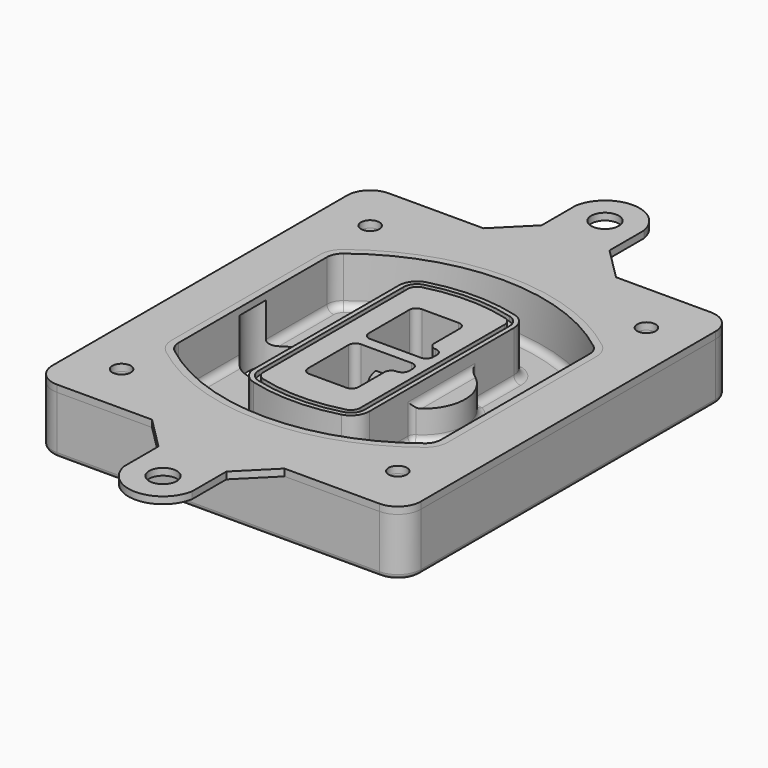
from build123d import *

# Parameters (mm, degrees)
F0_R      = 4
F1_DEPTH  = 25
F2_DEPTH  = 3
F3_DEPTH  = 18
F5_DEPTH  = 21
F6_DEPTH  = 2
F8_DEPTH  = 20
F9_DEPTH  = 16
F10_DEPTH = 25
F7_R      = 6
F7_R_2    = 4
F11_DEPTH = 6
F13_DEPTH = 9
F14_R     = 3
F15_R     = 2
F16_R     = 6
F16_R_2   = 4
F17_DEPTH = 3


with BuildPart() as f1:
    # F0 (on Top) → F1 (new body)
    with BuildSketch(Plane.XY):
        with BuildLine():
            ThreePointArc((-80, -80), (-77.0710678119, -87.0710678119), (-70, -90))
            Line((-70, -90), (70, -90))
            ThreePointArc((70, -90), (77.0710678119, -87.0710678119), (80, -80))
            Line((80, -80), (80, 80))
            ThreePointArc((80, 80), (77.0710678119, 87.0710678119), (70, 90))
            Line((70, 90), (-70, 90))
            ThreePointArc((-70, 90), (-77.0710678119, 87.0710678119), (-80, 80))
            Line((-80, 80), (-80, -80))
        make_face()
        with Locations((-60, -67.5)):
            Circle(F0_R, mode=Mode.SUBTRACT)
        with Locations((60, -67.5)):
            Circle(F0_R, mode=Mode.SUBTRACT)
        with Locations((-60, 67.5)):
            Circle(F0_R, mode=Mode.SUBTRACT)
        with BuildLine():
            ThreePointArc((-64, 40.2934422872), (-62.5820384798, 46.4328484224), (-58.6153846154, 51.3286200352))
            ThreePointArc((-58.6153846154, 51.3286200352), (0, 71.5), (58.6153846154, 51.3286200352))
            ThreePointArc((58.6153846154, 51.3286200352), (62.5820384798, 46.4328484224), (64, 40.2934422872))
            Line((64, 40.2934422872), (64, -40.2934422872))
            ThreePointArc((64, -40.2934422872), (62.5820384798, -46.4328484224), (58.6153846154, -51.3286200352))
            ThreePointArc((58.6153846154, -51.3286200352), (0, -71.5), (-58.6153846154, -51.3286200352))
            ThreePointArc((-58.6153846154, -51.3286200352), (-62.5820384798, -46.4328484224), (-64, -40.2934422872))
            Line((-64, -40.2934422872), (-64, 40.2934422872))
        make_face(mode=Mode.SUBTRACT)
        with Locations((60, 67.5)):
            Circle(F0_R, mode=Mode.SUBTRACT)
        with BuildLine():
            ThreePointArc((58.6153846154, 51.3286200352), (0, 71.5), (-58.6153846154, 51.3286200352))
            ThreePointArc((-58.6153846154, 51.3286200352), (-62.5820384798, 46.4328484224), (-64, 40.2934422872))
            Line((-64, 40.2934422872), (-64, -40.2934422872))
            ThreePointArc((-64, -40.2934422872), (-62.5820384798, -46.4328484224), (-58.6153846154, -51.3286200352))
            ThreePointArc((-58.6153846154, -51.3286200352), (0, -71.5), (58.6153846154, -51.3286200352))
            ThreePointArc((58.6153846154, -51.3286200352), (62.5820384798, -46.4328484224), (64, -40.2934422872))
            Line((64, -40.2934422872), (64, 40.2934422872))
            ThreePointArc((64, 40.2934422872), (62.5820384798, 46.4328484224), (58.6153846154, 51.3286200352))
        make_face()
        with BuildLine():
            Line((-60, -40.2934422872), (-60, 40.2934422872))
            ThreePointArc((-60, 40.2934422872), (-58.9871703427, 44.6787323838), (-56.1538461538, 48.1757121072))
            ThreePointArc((-56.1538461538, 48.1757121072), (0, 67.5), (56.1538461538, 48.1757121072))
            ThreePointArc((56.1538461538, 48.1757121072), (58.9871703427, 44.6787323838), (60, 40.2934422872))
            Line((60, 40.2934422872), (60, -40.2934422872))
            ThreePointArc((60, -40.2934422872), (58.9871703427, -44.6787323838), (56.1538461538, -48.1757121072))
            ThreePointArc((56.1538461538, -48.1757121072), (0, -67.5), (-56.1538461538, -48.1757121072))
            ThreePointArc((-56.1538461538, -48.1757121072), (-58.9871703427, -44.6787323838), (-60, -40.2934422872))
        make_face(mode=Mode.SUBTRACT)
        with BuildLine():
            ThreePointArc((-56.1538461538, 48.1757121072), (-58.9871703427, 44.6787323838), (-60, 40.2934422872))
            Line((-60, 40.2934422872), (-60, -40.2934422872))
            ThreePointArc((-60, -40.2934422872), (-58.9871703427, -44.6787323838), (-56.1538461538, -48.1757121072))
            ThreePointArc((-56.1538461538, -48.1757121072), (0, -67.5), (56.1538461538, -48.1757121072))
            ThreePointArc((56.1538461538, -48.1757121072), (58.9871703427, -44.6787323838), (60, -40.2934422872))
            Line((60, -40.2934422872), (60, 40.2934422872))
            ThreePointArc((60, 40.2934422872), (58.9871703427, 44.6787323838), (56.1538461538, 48.1757121072))
            ThreePointArc((56.1538461538, 48.1757121072), (0, 67.5), (-56.1538461538, 48.1757121072))
        make_face()
        with BuildLine():
            ThreePointArc((54.3076923077, 45.8110311612), (56.2910192399, 43.3631453548), (57, 40.2934422872))
            Line((57, 40.2934422872), (57, -40.2934422872))
            ThreePointArc((57, -40.2934422872), (56.2910192399, -43.3631453548), (54.3076923077, -45.8110311612))
            ThreePointArc((54.3076923077, -45.8110311612), (0, -64.5), (-54.3076923077, -45.8110311612))
            ThreePointArc((-54.3076923077, -45.8110311612), (-56.2910192399, -43.3631453548), (-57, -40.2934422872))
            Line((-57, -40.2934422872), (-57, 40.2934422872))
            ThreePointArc((-57, 40.2934422872), (-56.2910192399, 43.3631453548), (-54.3076923077, 45.8110311612))
            ThreePointArc((-54.3076923077, 45.8110311612), (0, 64.5), (54.3076923077, 45.8110311612))
        make_face(mode=Mode.SUBTRACT)
        with BuildLine():
            Line((57, -40.2934422872), (57, 40.2934422872))
            ThreePointArc((57, 40.2934422872), (56.2910192399, 43.3631453548), (54.3076923077, 45.8110311612))
            ThreePointArc((54.3076923077, 45.8110311612), (0, 64.5), (-54.3076923077, 45.8110311612))
            ThreePointArc((-54.3076923077, 45.8110311612), (-56.2910192399, 43.3631453548), (-57, 40.2934422872))
            Line((-57, 40.2934422872), (-57, -40.2934422872))
            ThreePointArc((-57, -40.2934422872), (-56.2910192399, -43.3631453548), (-54.3076923077, -45.8110311612))
            ThreePointArc((-54.3076923077, -45.8110311612), (0, -64.5), (54.3076923077, -45.8110311612))
            ThreePointArc((54.3076923077, -45.8110311612), (56.2910192399, -43.3631453548), (57, -40.2934422872))
        make_face()
    extrude(amount=-F1_DEPTH)

    # F0 (on Top) → F2 (join)
    with BuildSketch(Plane.XY):
        with BuildLine():
            ThreePointArc((-56.1538461538, 48.1757121072), (-58.9871703427, 44.6787323838), (-60, 40.2934422872))
            Line((-60, 40.2934422872), (-60, -40.2934422872))
            ThreePointArc((-60, -40.2934422872), (-58.9871703427, -44.6787323838), (-56.1538461538, -48.1757121072))
            ThreePointArc((-56.1538461538, -48.1757121072), (0, -67.5), (56.1538461538, -48.1757121072))
            ThreePointArc((56.1538461538, -48.1757121072), (58.9871703427, -44.6787323838), (60, -40.2934422872))
            Line((60, -40.2934422872), (60, 40.2934422872))
            ThreePointArc((60, 40.2934422872), (58.9871703427, 44.6787323838), (56.1538461538, 48.1757121072))
            ThreePointArc((56.1538461538, 48.1757121072), (0, 67.5), (-56.1538461538, 48.1757121072))
        make_face()
        with BuildLine():
            ThreePointArc((54.3076923077, 45.8110311612), (56.2910192399, 43.3631453548), (57, 40.2934422872))
            Line((57, 40.2934422872), (57, -40.2934422872))
            ThreePointArc((57, -40.2934422872), (56.2910192399, -43.3631453548), (54.3076923077, -45.8110311612))
            ThreePointArc((54.3076923077, -45.8110311612), (0, -64.5), (-54.3076923077, -45.8110311612))
            ThreePointArc((-54.3076923077, -45.8110311612), (-56.2910192399, -43.3631453548), (-57, -40.2934422872))
            Line((-57, -40.2934422872), (-57, 40.2934422872))
            ThreePointArc((-57, 40.2934422872), (-56.2910192399, 43.3631453548), (-54.3076923077, 45.8110311612))
            ThreePointArc((-54.3076923077, 45.8110311612), (0, 64.5), (54.3076923077, 45.8110311612))
        make_face(mode=Mode.SUBTRACT)
    extrude(amount=F2_DEPTH)

    # F0 (on Top) → F3 (cut)
    with BuildSketch(Plane.XY):
        with BuildLine():
            Line((57, -40.2934422872), (57, 40.2934422872))
            ThreePointArc((57, 40.2934422872), (56.2910192399, 43.3631453548), (54.3076923077, 45.8110311612))
            ThreePointArc((54.3076923077, 45.8110311612), (0, 64.5), (-54.3076923077, 45.8110311612))
            ThreePointArc((-54.3076923077, 45.8110311612), (-56.2910192399, 43.3631453548), (-57, 40.2934422872))
            Line((-57, 40.2934422872), (-57, -40.2934422872))
            ThreePointArc((-57, -40.2934422872), (-56.2910192399, -43.3631453548), (-54.3076923077, -45.8110311612))
            ThreePointArc((-54.3076923077, -45.8110311612), (0, -64.5), (54.3076923077, -45.8110311612))
            ThreePointArc((54.3076923077, -45.8110311612), (56.2910192399, -43.3631453548), (57, -40.2934422872))
        make_face()
    extrude(amount=-F3_DEPTH, mode=Mode.SUBTRACT)

    # F4 (on face) → F5 (join, through all)
    with BuildSketch(Plane.XY.offset(3)):
        with BuildLine():
            ThreePointArc((-25, -39.2465276821), (-23.3511545998, -44.1109737193), (-19.0842911877, -46.9702398883))
            ThreePointArc((-19.0842911877, -46.9702398883), (0, -49.5), (19.0842911877, -46.9702398883))
            ThreePointArc((19.0842911877, -46.9702398883), (23.3511545998, -44.1109737193), (25, -39.2465276821))
            Line((25, -39.2465276821), (25, 39.2465276821))
            ThreePointArc((25, 39.2465276821), (23.3511545998, 44.1109737193), (19.0842911877, 46.9702398883))
            ThreePointArc((19.0842911877, 46.9702398883), (0, 49.5), (-19.0842911877, 46.9702398883))
            ThreePointArc((-19.0842911877, 46.9702398883), (-23.3511545998, 44.1109737193), (-25, 39.2465276821))
            Line((-25, 39.2465276821), (-25, -39.2465276821))
        make_face()
        with BuildLine():
            ThreePointArc((18.5632183908, 45.0393118368), (21.7633659499, 42.89486221), (23, 39.2465276821))
            Line((23, 39.2465276821), (23, -39.2465276821))
            ThreePointArc((23, -39.2465276821), (21.7633659499, -42.89486221), (18.5632183908, -45.0393118368))
            ThreePointArc((18.5632183908, -45.0393118368), (0, -47.5), (-18.5632183908, -45.0393118368))
            ThreePointArc((-18.5632183908, -45.0393118368), (-21.7633659499, -42.89486221), (-23, -39.2465276821))
            Line((-23, -39.2465276821), (-23, 39.2465276821))
            ThreePointArc((-23, 39.2465276821), (-21.7633659499, 42.89486221), (-18.5632183908, 45.0393118368))
            ThreePointArc((-18.5632183908, 45.0393118368), (0, 47.5), (18.5632183908, 45.0393118368))
        make_face(mode=Mode.SUBTRACT)
        with BuildLine():
            Line((23, -39.2465276821), (23, 39.2465276821))
            ThreePointArc((23, 39.2465276821), (21.7633659499, 42.89486221), (18.5632183908, 45.0393118368))
            ThreePointArc((18.5632183908, 45.0393118368), (0, 47.5), (-18.5632183908, 45.0393118368))
            ThreePointArc((-18.5632183908, 45.0393118368), (-21.7633659499, 42.89486221), (-23, 39.2465276821))
            Line((-23, 39.2465276821), (-23, -39.2465276821))
            ThreePointArc((-23, -39.2465276821), (-21.7633659499, -42.89486221), (-18.5632183908, -45.0393118368))
            ThreePointArc((-18.5632183908, -45.0393118368), (0, -47.5), (18.5632183908, -45.0393118368))
            ThreePointArc((18.5632183908, -45.0393118368), (21.7633659499, -42.89486221), (23, -39.2465276821))
        make_face()
        with BuildLine():
            ThreePointArc((18.0421455939, 43.1083837852), (20.1755772999, 41.6787507007), (21, 39.2465276821))
            Line((21, 39.2465276821), (21, -39.2465276821))
            ThreePointArc((21, -39.2465276821), (20.1755772999, -41.6787507007), (18.0421455939, -43.1083837852))
            ThreePointArc((18.0421455939, -43.1083837852), (0, -45.5), (-18.0421455939, -43.1083837852))
            ThreePointArc((-18.0421455939, -43.1083837852), (-20.1755772999, -41.6787507007), (-21, -39.2465276821))
            Line((-21, -39.2465276821), (-21, 39.2465276821))
            ThreePointArc((-21, 39.2465276821), (-20.1755772999, 41.6787507007), (-18.0421455939, 43.1083837852))
            ThreePointArc((-18.0421455939, 43.1083837852), (0, 45.5), (18.0421455939, 43.1083837852))
        make_face(mode=Mode.SUBTRACT)
        with BuildLine():
            Line((21, -39.2465276821), (21, 39.2465276821))
            ThreePointArc((21, 39.2465276821), (20.1755772999, 41.6787507007), (18.0421455939, 43.1083837852))
            ThreePointArc((18.0421455939, 43.1083837852), (0, 45.5), (-18.0421455939, 43.1083837852))
            ThreePointArc((-18.0421455939, 43.1083837852), (-20.1755772999, 41.6787507007), (-21, 39.2465276821))
            Line((-21, 39.2465276821), (-21, -39.2465276821))
            ThreePointArc((-21, -39.2465276821), (-20.1755772999, -41.6787507007), (-18.0421455939, -43.1083837852))
            ThreePointArc((-18.0421455939, -43.1083837852), (0, -45.5), (18.0421455939, -43.1083837852))
            ThreePointArc((18.0421455939, -43.1083837852), (20.1755772999, -41.6787507007), (21, -39.2465276821))
        make_face()
        with BuildLine():
            Line((-8, -2.5), (14, -2.5))
            ThreePointArc((14, -2.5), (16.1213203436, -3.3786796564), (17, -5.5))
            Line((17, -5.5), (17, -7.5))
            ThreePointArc((17, -7.5), (16.1213203436, -9.6213203436), (14, -10.5))
            ThreePointArc((14, -10.5), (11.8786796564, -11.3786796564), (11, -13.5))
            Line((11, -13.5), (11, -27.5))
            ThreePointArc((11, -27.5), (10.1213203436, -29.6213203436), (8, -30.5))
            Line((8, -30.5), (-8, -30.5))
            ThreePointArc((-8, -30.5), (-10.1213203436, -29.6213203436), (-11, -27.5))
            Line((-11, -27.5), (-11, -5.5))
            ThreePointArc((-11, -5.5), (-10.1213203436, -3.3786796564), (-8, -2.5))
        make_face(mode=Mode.SUBTRACT)
        with BuildLine():
            ThreePointArc((-8, 2.5), (-10.1213203436, 3.3786796564), (-11, 5.5))
            Line((-11, 5.5), (-11, 27.5))
            ThreePointArc((-11, 27.5), (-10.1213203436, 29.6213203436), (-8, 30.5))
            Line((-8, 30.5), (8, 30.5))
            ThreePointArc((8, 30.5), (10.1213203436, 29.6213203436), (11, 27.5))
            Line((11, 27.5), (11, 13.5))
            ThreePointArc((11, 13.5), (11.8786796564, 11.3786796564), (14, 10.5))
            ThreePointArc((14, 10.5), (16.1213203436, 9.6213203436), (17, 7.5))
            Line((17, 7.5), (17, 5.5))
            ThreePointArc((17, 5.5), (16.1213203436, 3.3786796564), (14, 2.5))
            Line((14, 2.5), (-8, 2.5))
        make_face(mode=Mode.SUBTRACT)
    extrude(amount=-F5_DEPTH)

    # F4 (on face) → F6 (cut)
    with BuildSketch(Plane.XY.offset(3)):
        with BuildLine():
            Line((23, -39.2465276821), (23, 39.2465276821))
            ThreePointArc((23, 39.2465276821), (21.7633659499, 42.89486221), (18.5632183908, 45.0393118368))
            ThreePointArc((18.5632183908, 45.0393118368), (0, 47.5), (-18.5632183908, 45.0393118368))
            ThreePointArc((-18.5632183908, 45.0393118368), (-21.7633659499, 42.89486221), (-23, 39.2465276821))
            Line((-23, 39.2465276821), (-23, -39.2465276821))
            ThreePointArc((-23, -39.2465276821), (-21.7633659499, -42.89486221), (-18.5632183908, -45.0393118368))
            ThreePointArc((-18.5632183908, -45.0393118368), (0, -47.5), (18.5632183908, -45.0393118368))
            ThreePointArc((18.5632183908, -45.0393118368), (21.7633659499, -42.89486221), (23, -39.2465276821))
        make_face()
        with BuildLine():
            ThreePointArc((18.0421455939, 43.1083837852), (20.1755772999, 41.6787507007), (21, 39.2465276821))
            Line((21, 39.2465276821), (21, -39.2465276821))
            ThreePointArc((21, -39.2465276821), (20.1755772999, -41.6787507007), (18.0421455939, -43.1083837852))
            ThreePointArc((18.0421455939, -43.1083837852), (0, -45.5), (-18.0421455939, -43.1083837852))
            ThreePointArc((-18.0421455939, -43.1083837852), (-20.1755772999, -41.6787507007), (-21, -39.2465276821))
            Line((-21, -39.2465276821), (-21, 39.2465276821))
            ThreePointArc((-21, 39.2465276821), (-20.1755772999, 41.6787507007), (-18.0421455939, 43.1083837852))
            ThreePointArc((-18.0421455939, 43.1083837852), (0, 45.5), (18.0421455939, 43.1083837852))
        make_face(mode=Mode.SUBTRACT)
    extrude(amount=-F6_DEPTH, mode=Mode.SUBTRACT)

    # F7 (on face) → F8 (join)
    with BuildSketch(Plane(origin=(0, 0, -25), x_dir=(1, 0, 0), z_dir=(0, 0, -1))):
        with BuildLine():
            ThreePointArc((3.28842436, 0), (16.7567035675, 13.4682792075), (30.224982775, 0))
            Line((30.224982775, 0), (35.224982775, 0))
            ThreePointArc((35.224982775, 0), (16.7567035675, 18.4682792075), (-1.71157564, 0))
            Line((-1.71157564, 0), (3.28842436, 0))
        make_face()
        with BuildLine():
            Line((3.28842436, 0), (30.224982775, 0))
            ThreePointArc((30.224982775, 0), (16.7567035675, 13.4682792075), (3.28842436, 0))
        make_face()
        with BuildLine():
            ThreePointArc((3.28842436, 0), (16.7567035675, -13.4682792075), (30.224982775, 0))
            Line((30.224982775, 0), (3.28842436, 0))
        make_face()
        with BuildLine():
            Line((35.224982775, 0), (30.224982775, 0))
            ThreePointArc((30.224982775, 0), (16.7567035675, -13.4682792075), (3.28842436, 0))
            Line((3.28842436, 0), (-1.71157564, 0))
            ThreePointArc((-1.71157564, 0), (16.7567035675, -18.4682792075), (35.224982775, 0))
        make_face()
    extrude(amount=-F8_DEPTH)

    # F7 (on face) → F9 (cut)
    with BuildSketch(Plane(origin=(0, 0, -25), x_dir=(1, 0, 0), z_dir=(0, 0, -1))):
        with BuildLine():
            Line((3.28842436, 0), (30.224982775, 0))
            ThreePointArc((30.224982775, 0), (16.7567035675, 13.4682792075), (3.28842436, 0))
        make_face()
        with BuildLine():
            ThreePointArc((3.28842436, 0), (16.7567035675, -13.4682792075), (30.224982775, 0))
            Line((30.224982775, 0), (3.28842436, 0))
        make_face()
    extrude(amount=-F9_DEPTH, mode=Mode.SUBTRACT)

    # F7 (on face) → F10 (cut)
    with BuildSketch(Plane(origin=(0, 0, -25), x_dir=(1, 0, 0), z_dir=(0, 0, -1))):
        with BuildLine():
            Line((-59.0318229325, 0), (-32.0952645175, 0))
            ThreePointArc((-32.0952645175, 0), (-45.563543725, 13.4682792075), (-59.0318229325, 0))
        make_face()
        with BuildLine():
            ThreePointArc((-59.0318229325, 0), (-45.563543725, -13.4682792075), (-32.0952645175, 0))
            Line((-32.0952645175, 0), (-59.0318229325, 0))
        make_face()
    extrude(amount=-F10_DEPTH, mode=Mode.SUBTRACT)

    # F7 (on face) → F11 (cut)
    with BuildSketch(Plane(origin=(0, 0, -25), x_dir=(1, 0, 0), z_dir=(0, 0, -1))):
        with Locations((60, -67.5)):
            Circle(F7_R)
        with Locations((60, -67.5)):
            Circle(F7_R_2, mode=Mode.SUBTRACT)
        with Locations((60, -67.5)):
            Circle(F7_R)
        with Locations((60, -67.5)):
            Circle(F7_R_2, mode=Mode.SUBTRACT)
        with Locations((-60, -67.5)):
            Circle(F7_R)
        with Locations((-60, -67.5)):
            Circle(F7_R_2, mode=Mode.SUBTRACT)
        with Locations((-60, -67.5)):
            Circle(F7_R)
        with Locations((-60, -67.5)):
            Circle(F7_R_2, mode=Mode.SUBTRACT)
        with Locations((-60, 67.5)):
            Circle(F7_R)
        with Locations((-60, 67.5)):
            Circle(F7_R_2, mode=Mode.SUBTRACT)
        with Locations((-60, 67.5)):
            Circle(F7_R)
        with Locations((-60, 67.5)):
            Circle(F7_R_2, mode=Mode.SUBTRACT)
        with Locations((60, 67.5)):
            Circle(F7_R)
        with Locations((60, 67.5)):
            Circle(F7_R_2, mode=Mode.SUBTRACT)
        with Locations((60, 67.5)):
            Circle(F7_R)
        with Locations((60, 67.5)):
            Circle(F7_R_2, mode=Mode.SUBTRACT)
    extrude(amount=-F11_DEPTH, mode=Mode.SUBTRACT)

    # F12 (on face) → F13 (cut, through all)
    with BuildSketch(Plane(origin=(0, 0, -9), x_dir=(1, 0, 0), z_dir=(0, 0, -1))):
        with BuildLine():
            Line((11, 13.5), (11, 17.5481537753))
            ThreePointArc((11, 17.5481537753), (2.5696536419, 11.8239143813), (-1.5415842455, 2.5))
            Line((-1.5415842455, 2.5), (3.5224848595, 2.5))
            ThreePointArc((3.5224848595, 2.5), (6.1857188154, 8.3455872281), (11.2536447004, 12.2927168648))
            ThreePointArc((11.2536447004, 12.2927168648), (11.0640958889, 12.8831798879), (11, 13.5))
        make_face()
        with BuildLine():
            ThreePointArc((11.2536447004, -12.2927168648), (6.1857188154, -8.3455872281), (3.5224848595, -2.5))
            Line((3.5224848595, -2.5), (-1.5415842455, -2.5))
            ThreePointArc((-1.5415842455, -2.5), (2.5696536419, -11.8239143813), (11, -17.5481537753))
            Line((11, -17.5481537753), (11, -13.5))
            ThreePointArc((11, -13.5), (11.0640958889, -12.8831798879), (11.2536447004, -12.2927168648))
        make_face()
        with BuildLine():
            ThreePointArc((11.2536447004, 12.2927168648), (6.1857188154, 8.3455872281), (3.5224848595, 2.5))
            Line((3.5224848595, 2.5), (14, 2.5))
            ThreePointArc((14, 2.5), (16.1213203436, 3.3786796564), (17, 5.5))
            Line((17, 5.5), (17, 7.5))
            ThreePointArc((17, 7.5), (16.1213203436, 9.6213203436), (14, 10.5))
            ThreePointArc((14, 10.5), (12.3601599782, 10.9878446101), (11.2536447004, 12.2927168648))
        make_face()
        with BuildLine():
            Line((14, -2.5), (3.5224848595, -2.5))
            ThreePointArc((3.5224848595, -2.5), (6.1857188154, -8.3455872281), (11.2536447004, -12.2927168648))
            ThreePointArc((11.2536447004, -12.2927168648), (12.3601599782, -10.9878446101), (14, -10.5))
            ThreePointArc((14, -10.5), (16.1213203436, -9.6213203436), (17, -7.5))
            Line((17, -7.5), (17, -5.5))
            ThreePointArc((17, -5.5), (16.1213203436, -3.3786796564), (14, -2.5))
        make_face()
    extrude(amount=F13_DEPTH, mode=Mode.SUBTRACT)

    # F14
    f14_edges = [f1.edges().sort_by_distance(p)[0] for p in [
        (-57, -23.703476, -18),
        (-57, 23.703476, -18),
        (25, 0, -5),
        (25, 16.526506, -11.5),
        (25, -16.526506, -11.5),
        (25, -27.886517, -18),
        (35.224983, 0, -18),
    ]]
    fillet(f14_edges, radius=F14_R)

    # F15
    f15_edges = [f1.edges().sort_by_distance(p)[0] for p in [
        (0, -90, -25),
    ]]
    fillet(f15_edges, radius=F15_R)


with BuildPart() as f17:
    # F16 (on face) → F17 (new body, through all)
    with BuildSketch(Plane.XY):
        with BuildLine():
            Line((-28.7719909442, 90), (28.7719909442, 90))
            Line((28.7719909442, 90), (14.7518240646, 104.0201668797))
            Line((14.7518240646, 104.0201668797), (14.7518240646, 122.7172940157))
            ThreePointArc((14.7518240646, 122.7172940157), (0, 135), (-14.7518240646, 122.7172940157))
            Line((-14.7518240646, 122.7172940157), (-14.7518240646, 104.0201668797))
            Line((-14.7518240646, 104.0201668797), (-28.7719909442, 90))
        make_face()
        with Locations((0, 120)):
            Circle(F16_R, mode=Mode.SUBTRACT)
        with BuildLine():
            Line((70, 90), (28.7719909442, 90))
            Line((28.7719909442, 90), (-28.7719909442, 90))
            Line((-28.7719909442, 90), (-70, 90))
            ThreePointArc((-70, 90), (-77.0710678119, 87.0710678119), (-80, 80))
            Line((-80, 80), (-80, -80))
            ThreePointArc((-80, -80), (-77.0710678119, -87.0710678119), (-70, -90))
            Line((-70, -90), (-28.7719909442, -90))
            Line((-28.7719909442, -90), (28.7719909442, -90))
            Line((28.7719909442, -90), (70, -90))
            ThreePointArc((70, -90), (77.0710678119, -87.0710678119), (80, -80))
            Line((80, -80), (80, 80))
            ThreePointArc((80, 80), (77.0710678119, 87.0710678119), (70, 90))
        make_face()
        with Locations((-60, -67.5)):
            Circle(F16_R_2, mode=Mode.SUBTRACT)
        with Locations((60, -67.5)):
            Circle(F16_R_2, mode=Mode.SUBTRACT)
        with Locations((-60, 67.5)):
            Circle(F16_R_2, mode=Mode.SUBTRACT)
        with BuildLine():
            ThreePointArc((-60, 40.2934422872), (-58.9871703427, 44.6787323838), (-56.1538461538, 48.1757121072))
            ThreePointArc((-56.1538461538, 48.1757121072), (0, 67.5), (56.1538461538, 48.1757121072))
            ThreePointArc((56.1538461538, 48.1757121072), (58.9871703427, 44.6787323838), (60, 40.2934422872))
            Line((60, 40.2934422872), (60, -40.2934422872))
            ThreePointArc((60, -40.2934422872), (58.9871703427, -44.6787323838), (56.1538461538, -48.1757121072))
            ThreePointArc((56.1538461538, -48.1757121072), (0, -67.5), (-56.1538461538, -48.1757121072))
            ThreePointArc((-56.1538461538, -48.1757121072), (-58.9871703427, -44.6787323838), (-60, -40.2934422872))
            Line((-60, -40.2934422872), (-60, 40.2934422872))
        make_face(mode=Mode.SUBTRACT)
        with Locations((60, 67.5)):
            Circle(F16_R_2, mode=Mode.SUBTRACT)
        with BuildLine():
            Line((14.7518240646, -104.0201668797), (28.7719909442, -90))
            Line((28.7719909442, -90), (-28.7719909442, -90))
            Line((-28.7719909442, -90), (-14.7518240646, -104.0201668797))
            Line((-14.7518240646, -104.0201668797), (-14.7518240646, -122.7172940157))
            ThreePointArc((-14.7518240646, -122.7172940157), (0, -135), (14.7518240646, -122.7172940157))
            Line((14.7518240646, -122.7172940157), (14.7518240646, -104.0201668797))
        make_face()
        with Locations((0, -120)):
            Circle(F16_R, mode=Mode.SUBTRACT)
    extrude(amount=F17_DEPTH)


solid = Compound([f1.part, f17.part])
